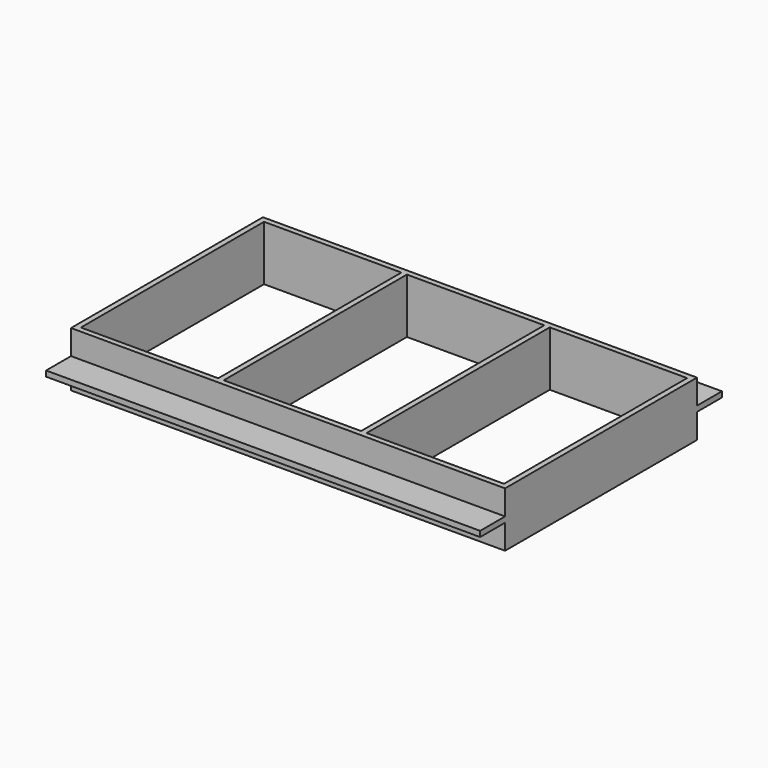
from build123d import *

# Parameters (mm, degrees)
F0_W     = 948
F0_H     = 524
F0_W_2   = 300
F0_H_2   = 500
F1_DEPTH = 120
F3_DEPTH = 948


with BuildPart() as f1:
    # F0 (on Top) → F1 (new body)
    with BuildSketch(Plane.XY):
        Rectangle(F0_W, F0_H)
        with Locations((-312, 0)):
            Rectangle(F0_W_2, F0_H_2, mode=Mode.SUBTRACT)
        Rectangle(F0_W_2, F0_H_2, mode=Mode.SUBTRACT)
        with Locations((312, 0)):
            Rectangle(F0_W_2, F0_H_2, mode=Mode.SUBTRACT)
    extrude(amount=F1_DEPTH)

    # F2 (on face) → F3 (join, through all)
    with BuildSketch(Plane(origin=(-474, 0, 0), x_dir=(0, -1, 0), z_dir=(-1, 0, 0))):
        Polygon((-330, 54), (-262, 54), (-262, 66), (-330, 66), (-330, 60), align=None)
        Polygon((262, 66), (262, 54), (330, 54), (330, 60), (330, 66), align=None)
    extrude(amount=-F3_DEPTH)


solid = f1.part
